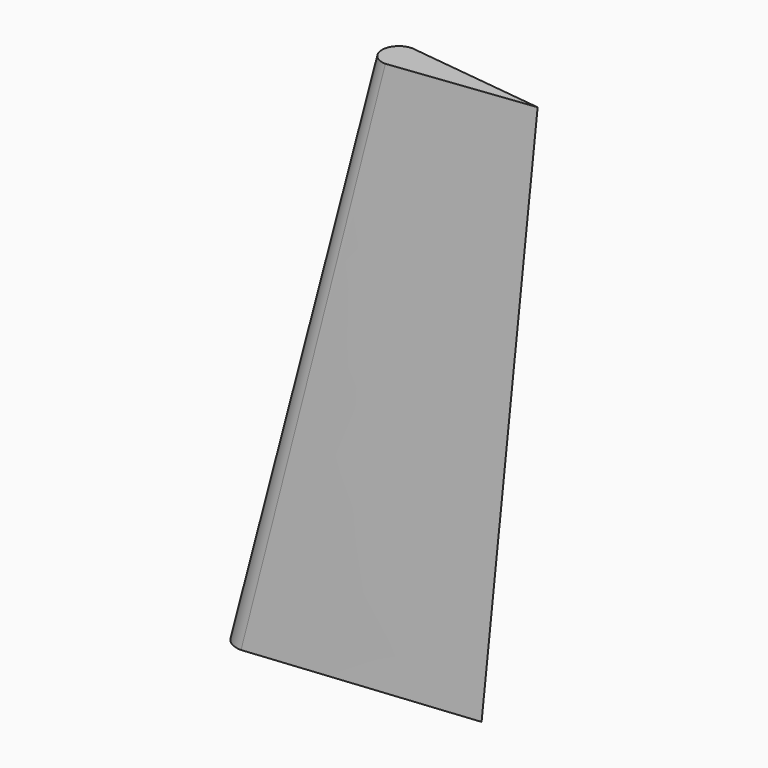
from build123d import *


with BuildPart() as f3:
    # F0 (on Top) → F3 section 0
    with BuildSketch(Plane.XY):
        with BuildLine():
            Line((19.899749, 0), (0, 2))
            ThreePointArc((0, 2), (-2, 0), (0, -2))
            Line((0, -2), (19.899749, 0))
        make_face()
    # F2 (on offset) → F3 section 1
    with BuildSketch(Plane.XY.offset(50)):
        with BuildLine():
            Line((24.909674, 0), (12.5, 1.5))
            ThreePointArc((12.5, 1.5), (11, 0), (12.5, -1.5))
            Line((12.5, -1.5), (24.909674, 0))
        make_face()
    loft()


solid = f3.part
